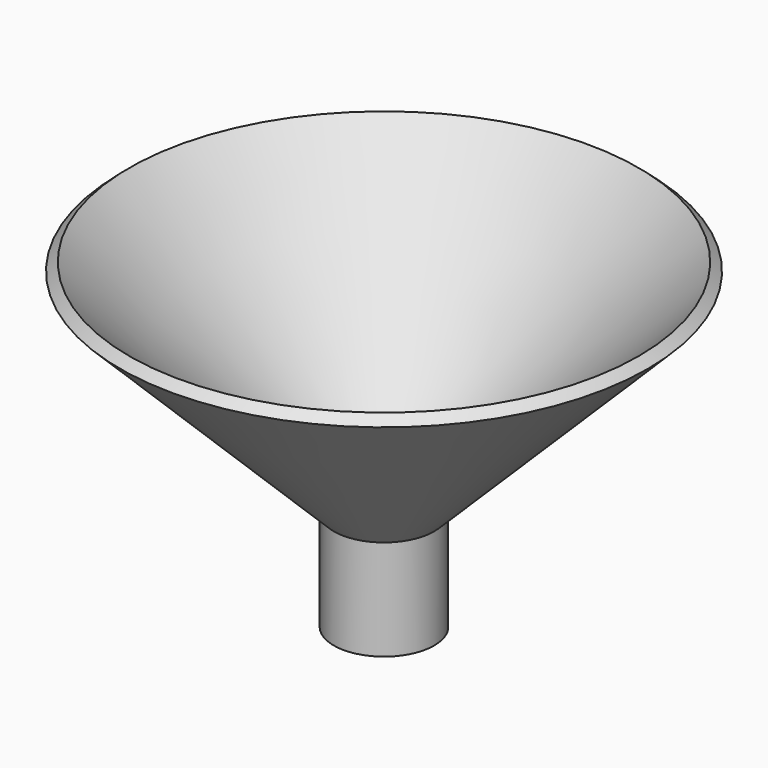
from build123d import *

# Parameters (mm, degrees)
F2_R     = 9.931182
F3_DEPTH = 50.8


with BuildPart() as f1:
    # F0 (on Front) → F1 (revolve)
    with BuildSketch(Plane.XZ):
        Polygon((0, -25.4), (0, 0), (54.017087, 53.745644), (51.690166, 55.812778), (-1.909546, 2.482411), (-12.7, 2.482411), (-12.7, -25.4), align=None)
    revolve(axis=Axis((-12.7, 0, -11.458795), (0, 0, 1)))

    # F2 (on face) → F3 (cut)
    with BuildSketch(Plane.XY.offset(2.482411)):
        with Locations((-12.7, 0)):
            Circle(F2_R)
    extrude(amount=-F3_DEPTH, mode=Mode.SUBTRACT)


solid = f1.part
